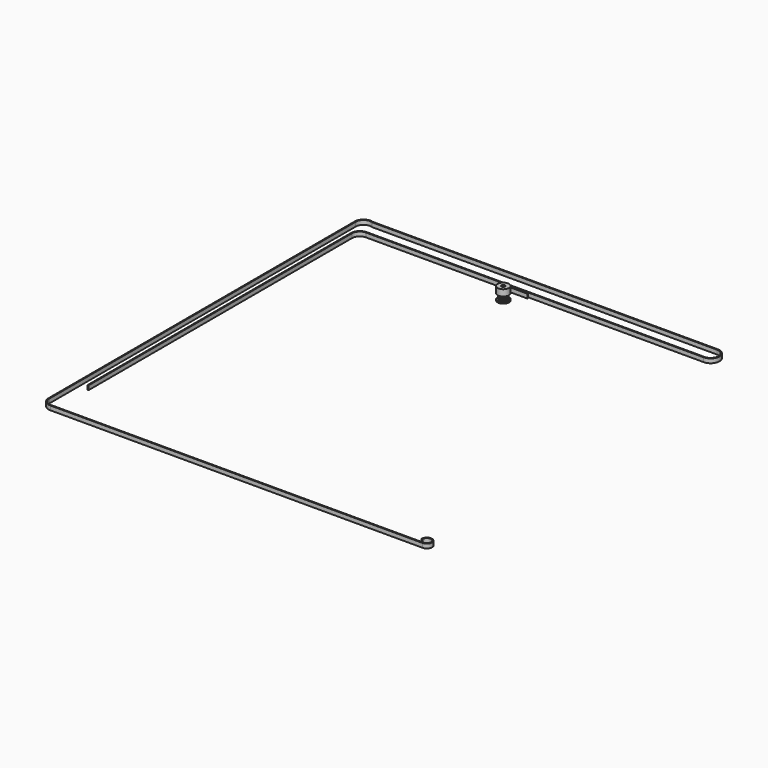
from build123d import *

# Parameters (mm, degrees)
F1_DEPTH  = 7.5
F2_R      = 8
F3_DEPTH  = 9
F4_R      = 8
F5_DEPTH  = 1.5
F6_R      = 2.5
F7_DEPTH  = 18.001
F8_R      = 1.5
F9_DEPTH  = 8.001
F10_R     = 1.5
F11_DEPTH = 8.0010001
F12_DEPTH = 6


with BuildPart() as f1:
    # F0 (on Top) → F1 (new body)
    with BuildSketch(Plane.XY):
        with BuildLine():
            ThreePointArc((-0.5137469529, -5.5950260293), (0, -5.25), (0.5137469529, -5.5950260293))
            ThreePointArc((0.5137469529, -5.5950260293), (0.5592692601, -5.7125893356), (0.5896381917, -5.8349459432))
            ThreePointArc((0.5896381917, -5.8349459432), (0.634011817, -5.9169199806), (0.718236871, -5.9568562008))
            ThreePointArc((0.718236871, -5.9568562008), (0.7555100891, -5.952243653), (0.7927537045, -5.9473978818))
            ThreePointArc((0.7927537045, -5.9473978818), (0.9386067902, -5.9261300436), (1.0838934413, -5.9012858775))
            ThreePointArc((1.0838934413, -5.9012858775), (1.1208116501, -5.8943855698), (1.1576859427, -5.8872543055))
            ThreePointArc((1.1576859427, -5.8872543055), (1.2254477584, -5.82324573), (1.2423182132, -5.7315715833))
            ThreePointArc((1.2423182132, -5.7315715833), (1.2333905124, -5.6058190183), (1.2403557397, -5.4799425032))
            ThreePointArc((1.2403557397, -5.4799425032), (1.6223392205, -4.9930467105), (2.2175605143, -5.1624294247))
            ThreePointArc((2.2175605143, -5.1624294247), (2.2971838607, -5.2601716067), (2.3638767022, -5.3671551397))
            ThreePointArc((2.3638767022, -5.3671551397), (2.4314098983, -5.4314048778), (2.5238536555, -5.4433595073))
            ThreePointArc((2.5238536555, -5.4433595073), (2.5578772368, -5.4274546558), (2.5918005942, -5.4113371434))
            ThreePointArc((2.5918005942, -5.4113371434), (2.7239429984, -5.3460391451), (2.8544415451, -5.2775148949))
            ThreePointArc((2.8544415451, -5.2775148949), (2.8874205358, -5.2595439583), (2.9202863902, -5.2413669399))
            ThreePointArc((2.9202863902, -5.2413669399), (2.964951969, -5.1595516144), (2.9526678557, -5.0671510626))
            ThreePointArc((2.9526678557, -5.0671510626), (2.905317428, -4.9503120775), (2.8730437705, -4.828444024))
            ThreePointArc((2.8730437705, -4.828444024), (3.0858725745, -4.2473392205), (3.7043038019, -4.2244982593))
            ThreePointArc((3.7043038019, -4.2244982593), (3.8102340997, -4.2928516312), (3.906722491, -4.373989796))
            ThreePointArc((3.906722491, -4.373989796), (3.9908046381, -4.4142260228), (4.0824180595, -4.3970288591))
            ThreePointArc((4.0824180595, -4.3970288591), (4.1098615388, -4.3713885816), (4.1371439837, -4.3455770225))
            ThreePointArc((4.1371439837, -4.3455770225), (4.2426406871, -4.2426406871), (4.3455770225, -4.1371439837))
            ThreePointArc((4.3455770225, -4.1371439837), (4.3713885816, -4.1098615388), (4.3970288591, -4.0824180595))
            ThreePointArc((4.3970288591, -4.0824180595), (4.4142260228, -3.9908046381), (4.373989796, -3.906722491))
            ThreePointArc((4.373989796, -3.906722491), (4.2928516312, -3.8102340997), (4.2244982593, -3.7043038019))
            ThreePointArc((4.2244982593, -3.7043038019), (4.2473392205, -3.0858725745), (4.828444024, -2.8730437705))
            ThreePointArc((4.828444024, -2.8730437705), (4.9503120775, -2.905317428), (5.0671510626, -2.9526678557))
            ThreePointArc((5.0671510626, -2.9526678557), (5.1595516144, -2.964951969), (5.2413669399, -2.9202863902))
            ThreePointArc((5.2413669399, -2.9202863902), (5.2595439583, -2.8874205358), (5.2775148949, -2.8544415451))
            ThreePointArc((5.2775148949, -2.8544415451), (5.3460391451, -2.7239429984), (5.4113371434, -2.5918005942))
            ThreePointArc((5.4113371434, -2.5918005942), (5.4432427829, -2.4673716464), (5.3671551397, -2.3638767022))
            ThreePointArc((5.3671551397, -2.3638767022), (5.2601716067, -2.2971838607), (5.1624294247, -2.2175605143))
            ThreePointArc((5.1624294247, -2.2175605143), (4.9930467105, -1.6223392205), (5.4799425032, -1.2403557397))
            ThreePointArc((5.4799425032, -1.2403557397), (5.6058190183, -1.2333905124), (5.7315715833, -1.2423182132))
            ThreePointArc((5.7315715833, -1.2423182132), (5.82324573, -1.2254477584), (5.8872543055, -1.1576859427))
            ThreePointArc((5.8872543055, -1.1576859427), (5.8943855698, -1.1208116501), (5.9012858775, -1.0838934413))
            ThreePointArc((5.9012858775, -1.0838934413), (5.9261300436, -0.9386067902), (5.9473978818, -0.7927537045))
            ThreePointArc((5.9473978818, -0.7927537045), (5.952243653, -0.7555100891), (5.9568562008, -0.718236871))
            ThreePointArc((5.9568562008, -0.718236871), (5.9169199806, -0.634011817), (5.8349459432, -0.5896381917))
            ThreePointArc((5.8349459432, -0.5896381917), (5.7125893356, -0.5592692601), (5.5950260293, -0.5137469529))
            ThreePointArc((5.5950260293, -0.5137469529), (5.25, 0), (5.5950260293, 0.5137469529))
            ThreePointArc((5.5950260293, 0.5137469529), (5.7125893356, 0.5592692601), (5.8349459432, 0.5896381917))
            ThreePointArc((5.8349459432, 0.5896381917), (5.9169199806, 0.634011817), (5.9568562008, 0.718236871))
            ThreePointArc((5.9568562008, 0.718236871), (5.952243653, 0.7555100891), (5.9473978818, 0.7927537045))
            ThreePointArc((5.9473978818, 0.7927537045), (5.9261300436, 0.9386067902), (5.9012858775, 1.0838934413))
            ThreePointArc((5.9012858775, 1.0838934413), (5.8943855698, 1.1208116501), (5.8872543055, 1.1576859427))
            ThreePointArc((5.8872543055, 1.1576859427), (5.82324573, 1.2254477584), (5.7315715833, 1.2423182132))
            ThreePointArc((5.7315715833, 1.2423182132), (5.6058190183, 1.2333905124), (5.4799425032, 1.2403557397))
            ThreePointArc((5.4799425032, 1.2403557397), (4.9930467105, 1.6223392205), (5.1624294247, 2.2175605143))
            ThreePointArc((5.1624294247, 2.2175605143), (5.2601716067, 2.2971838607), (5.3671551397, 2.3638767022))
            ThreePointArc((5.3671551397, 2.3638767022), (5.4314048778, 2.4314098983), (5.4433595073, 2.5238536555))
            ThreePointArc((5.4433595073, 2.5238536555), (5.4274546558, 2.5578772368), (5.4113371434, 2.5918005942))
            ThreePointArc((5.4113371434, 2.5918005942), (5.3460391451, 2.7239429984), (5.2775148949, 2.8544415451))
            ThreePointArc((5.2775148949, 2.8544415451), (5.2595439583, 2.8874205358), (5.2413669399, 2.9202863902))
            ThreePointArc((5.2413669399, 2.9202863902), (5.1595516144, 2.964951969), (5.0671510626, 2.9526678557))
            ThreePointArc((5.0671510626, 2.9526678557), (4.9503120775, 2.905317428), (4.828444024, 2.8730437705))
            ThreePointArc((4.828444024, 2.8730437705), (4.2473392205, 3.0858725745), (4.2244982593, 3.7043038019))
            ThreePointArc((4.2244982593, 3.7043038019), (4.2928516312, 3.8102340997), (4.373989796, 3.906722491))
            ThreePointArc((4.373989796, 3.906722491), (4.4142260228, 3.9908046381), (4.3970288591, 4.0824180595))
            ThreePointArc((4.3970288591, 4.0824180595), (4.3713885816, 4.1098615388), (4.3455770225, 4.1371439837))
            ThreePointArc((4.3455770225, 4.1371439837), (4.2426406871, 4.2426406871), (4.1371439837, 4.3455770225))
            ThreePointArc((4.1371439837, 4.3455770225), (4.1098615388, 4.3713885816), (4.0824180595, 4.3970288591))
            ThreePointArc((4.0824180595, 4.3970288591), (3.9908046381, 4.4142260228), (3.906722491, 4.373989796))
            ThreePointArc((3.906722491, 4.373989796), (3.8102340997, 4.2928516312), (3.7043038019, 4.2244982593))
            ThreePointArc((3.7043038019, 4.2244982593), (3.0858725745, 4.2473392205), (2.8730437705, 4.828444024))
            ThreePointArc((2.8730437705, 4.828444024), (2.905317428, 4.9503120775), (2.9526678557, 5.0671510626))
            ThreePointArc((2.9526678557, 5.0671510626), (2.964951969, 5.1595516144), (2.9202863902, 5.2413669399))
            ThreePointArc((2.9202863902, 5.2413669399), (2.8874205358, 5.2595439583), (2.8544415451, 5.2775148949))
            ThreePointArc((2.8544415451, 5.2775148949), (2.7239429984, 5.3460391451), (2.5918005942, 5.4113371434))
            ThreePointArc((2.5918005942, 5.4113371434), (2.5578772368, 5.4274546558), (2.5238536555, 5.4433595073))
            ThreePointArc((2.5238536555, 5.4433595073), (2.4314098983, 5.4314048778), (2.3638767022, 5.3671551397))
            ThreePointArc((2.3638767022, 5.3671551397), (2.2971838607, 5.2601716067), (2.2175605143, 5.1624294247))
            ThreePointArc((2.2175605143, 5.1624294247), (1.6223392205, 4.9930467105), (1.2403557397, 5.4799425032))
            ThreePointArc((1.2403557397, 5.4799425032), (1.2333905124, 5.6058190183), (1.2423182132, 5.7315715833))
            ThreePointArc((1.2423182132, 5.7315715833), (1.2254477584, 5.82324573), (1.1576859427, 5.8872543055))
            ThreePointArc((1.1576859427, 5.8872543055), (1.1208116501, 5.8943855698), (1.0838934413, 5.9012858775))
            ThreePointArc((1.0838934413, 5.9012858775), (0.9386067902, 5.9261300436), (0.7927537045, 5.9473978818))
            ThreePointArc((0.7927537045, 5.9473978818), (0.7555100891, 5.952243653), (0.718236871, 5.9568562008))
            ThreePointArc((0.718236871, 5.9568562008), (0.634011817, 5.9169199806), (0.5896381917, 5.8349459432))
            ThreePointArc((0.5896381917, 5.8349459432), (0.5592692601, 5.7125893356), (0.5137469529, 5.5950260293))
            ThreePointArc((0.5137469529, 5.5950260293), (0, 5.25), (-0.5137469529, 5.5950260293))
            ThreePointArc((-0.5137469529, 5.5950260293), (-0.5592692601, 5.7125893356), (-0.5896381917, 5.8349459432))
            ThreePointArc((-0.5896381917, 5.8349459432), (-0.634011817, 5.9169199806), (-0.718236871, 5.9568562008))
            ThreePointArc((-0.718236871, 5.9568562008), (-0.7555100891, 5.952243653), (-0.7927537045, 5.9473978818))
            ThreePointArc((-0.7927537045, 5.9473978818), (-0.9386067902, 5.9261300436), (-1.0838934413, 5.9012858775))
            ThreePointArc((-1.0838934413, 5.9012858775), (-1.1208116501, 5.8943855698), (-1.1576859427, 5.8872543055))
            ThreePointArc((-1.1576859427, 5.8872543055), (-1.2254477584, 5.82324573), (-1.2423182132, 5.7315715833))
            ThreePointArc((-1.2423182132, 5.7315715833), (-1.2333905124, 5.6058190183), (-1.2403557397, 5.4799425032))
            ThreePointArc((-1.2403557397, 5.4799425032), (-1.6223392205, 4.9930467105), (-2.2175605143, 5.1624294247))
            ThreePointArc((-2.2175605143, 5.1624294247), (-2.2971838607, 5.2601716067), (-2.3638767022, 5.3671551397))
            ThreePointArc((-2.3638767022, 5.3671551397), (-2.4314098983, 5.4314048778), (-2.5238536555, 5.4433595073))
            ThreePointArc((-2.5238536555, 5.4433595073), (-2.5578772368, 5.4274546558), (-2.5918005942, 5.4113371434))
            ThreePointArc((-2.5918005942, 5.4113371434), (-2.7239429984, 5.3460391451), (-2.8544415451, 5.2775148949))
            ThreePointArc((-2.8544415451, 5.2775148949), (-2.8874205358, 5.2595439583), (-2.9202863902, 5.2413669399))
            ThreePointArc((-2.9202863902, 5.2413669399), (-2.964951969, 5.1595516144), (-2.9526678557, 5.0671510626))
            ThreePointArc((-2.9526678557, 5.0671510626), (-2.905317428, 4.9503120775), (-2.8730437705, 4.828444024))
            ThreePointArc((-2.8730437705, 4.828444024), (-3.0858725745, 4.2473392205), (-3.7043038019, 4.2244982593))
            ThreePointArc((-3.7043038019, 4.2244982593), (-3.8102340997, 4.2928516312), (-3.906722491, 4.373989796))
            ThreePointArc((-3.906722491, 4.373989796), (-3.9908046381, 4.4142260228), (-4.0824180595, 4.3970288591))
            ThreePointArc((-4.0824180595, 4.3970288591), (-4.1098615388, 4.3713885816), (-4.1371439837, 4.3455770225))
            ThreePointArc((-4.1371439837, 4.3455770225), (-4.2426406871, 4.2426406871), (-4.3455770225, 4.1371439837))
            ThreePointArc((-4.3455770225, 4.1371439837), (-4.3713885816, 4.1098615388), (-4.3970288591, 4.0824180595))
            ThreePointArc((-4.3970288591, 4.0824180595), (-4.4142260228, 3.9908046381), (-4.373989796, 3.906722491))
            ThreePointArc((-4.373989796, 3.906722491), (-4.2928516312, 3.8102340997), (-4.2244982593, 3.7043038019))
            ThreePointArc((-4.2244982593, 3.7043038019), (-4.2473392205, 3.0858725745), (-4.828444024, 2.8730437705))
            ThreePointArc((-4.828444024, 2.8730437705), (-4.9503120775, 2.905317428), (-5.0671510626, 2.9526678557))
            ThreePointArc((-5.0671510626, 2.9526678557), (-5.1595516144, 2.964951969), (-5.2413669399, 2.9202863902))
            ThreePointArc((-5.2413669399, 2.9202863902), (-5.2595439583, 2.8874205358), (-5.2775148949, 2.8544415451))
            ThreePointArc((-5.2775148949, 2.8544415451), (-5.3460391451, 2.7239429984), (-5.4113371434, 2.5918005942))
            ThreePointArc((-5.4113371434, 2.5918005942), (-5.4274546558, 2.5578772368), (-5.4433595073, 2.5238536555))
            ThreePointArc((-5.4433595073, 2.5238536555), (-5.4314048778, 2.4314098983), (-5.3671551397, 2.3638767022))
            ThreePointArc((-5.3671551397, 2.3638767022), (-5.2601716067, 2.2971838607), (-5.1624294247, 2.2175605143))
            ThreePointArc((-5.1624294247, 2.2175605143), (-4.9930467105, 1.6223392205), (-5.4799425032, 1.2403557397))
            ThreePointArc((-5.4799425032, 1.2403557397), (-5.6058190183, 1.2333905124), (-5.7315715833, 1.2423182132))
            ThreePointArc((-5.7315715833, 1.2423182132), (-5.82324573, 1.2254477584), (-5.8872543055, 1.1576859427))
            ThreePointArc((-5.8872543055, 1.1576859427), (-5.8943855698, 1.1208116501), (-5.9012858775, 1.0838934413))
            ThreePointArc((-5.9012858775, 1.0838934413), (-5.9261300436, 0.9386067902), (-5.9473978818, 0.7927537045))
            ThreePointArc((-5.9473978818, 0.7927537045), (-5.952243653, 0.7555100891), (-5.9568562008, 0.718236871))
            ThreePointArc((-5.9568562008, 0.718236871), (-5.9169199806, 0.634011817), (-5.8349459432, 0.5896381917))
            ThreePointArc((-5.8349459432, 0.5896381917), (-5.7125893356, 0.5592692601), (-5.5950260293, 0.5137469529))
            ThreePointArc((-5.5950260293, 0.5137469529), (-5.25, 0), (-5.5950260293, -0.5137469529))
            ThreePointArc((-5.5950260293, -0.5137469529), (-5.7125893356, -0.5592692601), (-5.8349459432, -0.5896381917))
            ThreePointArc((-5.8349459432, -0.5896381917), (-5.9169199806, -0.634011817), (-5.9568562008, -0.718236871))
            ThreePointArc((-5.9568562008, -0.718236871), (-5.952243653, -0.7555100891), (-5.9473978818, -0.7927537045))
            ThreePointArc((-5.9473978818, -0.7927537045), (-5.9261300436, -0.9386067902), (-5.9012858775, -1.0838934413))
            ThreePointArc((-5.9012858775, -1.0838934413), (-5.8943855698, -1.1208116501), (-5.8872543055, -1.1576859427))
            ThreePointArc((-5.8872543055, -1.1576859427), (-5.82324573, -1.2254477584), (-5.7315715833, -1.2423182132))
            ThreePointArc((-5.7315715833, -1.2423182132), (-5.6058190183, -1.2333905124), (-5.4799425032, -1.2403557397))
            ThreePointArc((-5.4799425032, -1.2403557397), (-4.9930467105, -1.6223392205), (-5.1624294247, -2.2175605143))
            ThreePointArc((-5.1624294247, -2.2175605143), (-5.2601716067, -2.2971838607), (-5.3671551397, -2.3638767022))
            ThreePointArc((-5.3671551397, -2.3638767022), (-5.4314048778, -2.4314098983), (-5.4433595073, -2.5238536555))
            ThreePointArc((-5.4433595073, -2.5238536555), (-5.4274546558, -2.5578772368), (-5.4113371434, -2.5918005942))
            ThreePointArc((-5.4113371434, -2.5918005942), (-5.3460391451, -2.7239429984), (-5.2775148949, -2.8544415451))
            ThreePointArc((-5.2775148949, -2.8544415451), (-5.2595439583, -2.8874205358), (-5.2413669399, -2.9202863902))
            ThreePointArc((-5.2413669399, -2.9202863902), (-5.1595516144, -2.964951969), (-5.0671510626, -2.9526678557))
            ThreePointArc((-5.0671510626, -2.9526678557), (-4.9503120775, -2.905317428), (-4.828444024, -2.8730437705))
            ThreePointArc((-4.828444024, -2.8730437705), (-4.2473392205, -3.0858725745), (-4.2244982593, -3.7043038019))
            ThreePointArc((-4.2244982593, -3.7043038019), (-4.2928516312, -3.8102340997), (-4.373989796, -3.906722491))
            ThreePointArc((-4.373989796, -3.906722491), (-4.4142260228, -3.9908046381), (-4.3970288591, -4.0824180595))
            ThreePointArc((-4.3970288591, -4.0824180595), (-4.3713885816, -4.1098615388), (-4.3455770225, -4.1371439837))
            ThreePointArc((-4.3455770225, -4.1371439837), (-4.2426406871, -4.2426406871), (-4.1371439837, -4.3455770225))
            ThreePointArc((-4.1371439837, -4.3455770225), (-4.1098615388, -4.3713885816), (-4.0824180595, -4.3970288591))
            ThreePointArc((-4.0824180595, -4.3970288591), (-3.9908046381, -4.4142260228), (-3.906722491, -4.373989796))
            ThreePointArc((-3.906722491, -4.373989796), (-3.8102340997, -4.2928516312), (-3.7043038019, -4.2244982593))
            ThreePointArc((-3.7043038019, -4.2244982593), (-3.0858725745, -4.2473392205), (-2.8730437705, -4.828444024))
            ThreePointArc((-2.8730437705, -4.828444024), (-2.905317428, -4.9503120775), (-2.9526678557, -5.0671510626))
            ThreePointArc((-2.9526678557, -5.0671510626), (-2.964951969, -5.1595516144), (-2.9202863902, -5.2413669399))
            ThreePointArc((-2.9202863902, -5.2413669399), (-2.8874205358, -5.2595439583), (-2.8544415451, -5.2775148949))
            ThreePointArc((-2.8544415451, -5.2775148949), (-2.7239429984, -5.3460391451), (-2.5918005942, -5.4113371434))
            ThreePointArc((-2.5918005942, -5.4113371434), (-2.5578772368, -5.4274546558), (-2.5238536555, -5.4433595073))
            ThreePointArc((-2.5238536555, -5.4433595073), (-2.4314098983, -5.4314048778), (-2.3638767022, -5.3671551397))
            ThreePointArc((-2.3638767022, -5.3671551397), (-2.2971838607, -5.2601716067), (-2.2175605143, -5.1624294247))
            ThreePointArc((-2.2175605143, -5.1624294247), (-1.6223392205, -4.9930467105), (-1.2403557397, -5.4799425032))
            ThreePointArc((-1.2403557397, -5.4799425032), (-1.2333905124, -5.6058190183), (-1.2423182132, -5.7315715833))
            ThreePointArc((-1.2423182132, -5.7315715833), (-1.2254477584, -5.82324573), (-1.1576859427, -5.8872543055))
            ThreePointArc((-1.1576859427, -5.8872543055), (-1.1208116501, -5.8943855698), (-1.0838934413, -5.9012858775))
            ThreePointArc((-1.0838934413, -5.9012858775), (-0.9386067902, -5.9261300436), (-0.7927537045, -5.9473978818))
            ThreePointArc((-0.7927537045, -5.9473978818), (-0.7555100891, -5.952243653), (-0.718236871, -5.9568562008))
            ThreePointArc((-0.718236871, -5.9568562008), (-0.634011817, -5.9169199806), (-0.5896381917, -5.8349459432))
            ThreePointArc((-0.5896381917, -5.8349459432), (-0.5592692601, -5.7125893356), (-0.5137469529, -5.5950260293))
        make_face()
    extrude(amount=F1_DEPTH)

    # F2 (on face) → F3 (join)
    with BuildSketch(Plane.XY.offset(7.5)):
        Circle(F2_R)
    extrude(amount=F3_DEPTH)

    # F4 (on face) → F5 (join)
    with BuildSketch(Plane(origin=(0, 0, 0), x_dir=(1, 0, 0), z_dir=(0, 0, -1))):
        Circle(F4_R)
    extrude(amount=F5_DEPTH)

    # F6 (on face) → F7 (cut, through all)
    with BuildSketch(Plane(origin=(0, 0, -1.5), x_dir=(1, 0, 0), z_dir=(0, 0, -1))):
        Circle(F6_R)
    extrude(amount=-F7_DEPTH, mode=Mode.SUBTRACT)

    # F8 (on Right) → F9 (cut, through all)
    with BuildSketch(Plane.YZ):
        with Locations((0, 12)):
            Circle(F8_R)
    extrude(amount=-F9_DEPTH, mode=Mode.SUBTRACT)

    # F10 (on Front) → F11 (cut, through all)
    with BuildSketch(Plane.XZ):
        with Locations((0, 12)):
            Circle(F10_R)
    extrude(amount=-F11_DEPTH, mode=Mode.SUBTRACT)


with BuildPart() as f12:
    # F0 (on Top) → F12 (new body)
    with BuildSketch(Plane.XY):
        with BuildLine():
            Line((-18.1710498184, 18.4070537127), (-18.1710498184, 17.7770537127))
            Line((-18.1710498184, 17.7770537127), (19.8289501816, 17.7770537127))
            Line((19.8289501816, 17.7770537127), (19.8289501816, 18.4070537127))
            Line((19.8289501816, 18.4070537127), (19.5691256067, 18.4070537127))
            ThreePointArc((19.5691256067, 18.4070537127), (19.4702185357, 18.444282301), (19.420407073, 18.5374884953))
            ThreePointArc((19.420407073, 18.5374884953), (19.3865618959, 18.6951158667), (19.3278265861, 18.8452559599))
            ThreePointArc((19.3278265861, 18.8452559599), (19.1230995933, 19.0726927714), (18.8289501816, 19.1570537127))
            ThreePointArc((18.8289501816, 19.1570537127), (18.5348007699, 19.0726927714), (18.3300737771, 18.8452559599))
            ThreePointArc((18.3300737771, 18.8452559599), (18.2713384673, 18.6951158667), (18.2374932902, 18.5374884953))
            ThreePointArc((18.2374932902, 18.5374884953), (18.1876818275, 18.444282301), (18.0887747565, 18.4070537127))
            Line((18.0887747565, 18.4070537127), (17.8289501816, 18.4070537127))
            Line((17.8289501816, 18.4070537127), (17.5691256067, 18.4070537127))
            ThreePointArc((17.5691256067, 18.4070537127), (17.4702185357, 18.444282301), (17.420407073, 18.5374884953))
            ThreePointArc((17.420407073, 18.5374884953), (17.3865618959, 18.6951158667), (17.3278265861, 18.8452559599))
            ThreePointArc((17.3278265861, 18.8452559599), (17.1230995933, 19.0726927714), (16.8289501816, 19.1570537127))
            ThreePointArc((16.8289501816, 19.1570537127), (16.5348007699, 19.0726927714), (16.3300737771, 18.8452559599))
            ThreePointArc((16.3300737771, 18.8452559599), (16.2713384673, 18.6951158667), (16.2374932902, 18.5374884953))
            ThreePointArc((16.2374932902, 18.5374884953), (16.1876818275, 18.444282301), (16.0887747565, 18.4070537127))
            Line((16.0887747565, 18.4070537127), (15.8289501816, 18.4070537127))
            Line((15.8289501816, 18.4070537127), (15.5691256067, 18.4070537127))
            ThreePointArc((15.5691256067, 18.4070537127), (15.4702185357, 18.444282301), (15.420407073, 18.5374884953))
            ThreePointArc((15.420407073, 18.5374884953), (15.3865618959, 18.6951158667), (15.3278265861, 18.8452559599))
            ThreePointArc((15.3278265861, 18.8452559599), (15.1230995933, 19.0726927714), (14.8289501816, 19.1570537127))
            ThreePointArc((14.8289501816, 19.1570537127), (14.5348007699, 19.0726927714), (14.3300737771, 18.8452559599))
            ThreePointArc((14.3300737771, 18.8452559599), (14.2713384673, 18.6951158667), (14.2374932902, 18.5374884953))
            ThreePointArc((14.2374932902, 18.5374884953), (14.1876818275, 18.444282301), (14.0887747565, 18.4070537127))
            Line((14.0887747565, 18.4070537127), (13.8289501816, 18.4070537127))
            Line((13.8289501816, 18.4070537127), (13.5691256067, 18.4070537127))
            ThreePointArc((13.5691256067, 18.4070537127), (13.4702185357, 18.444282301), (13.420407073, 18.5374884953))
            ThreePointArc((13.420407073, 18.5374884953), (13.3865618959, 18.6951158667), (13.3278265861, 18.8452559599))
            ThreePointArc((13.3278265861, 18.8452559599), (13.1230995933, 19.0726927714), (12.8289501816, 19.1570537127))
            ThreePointArc((12.8289501816, 19.1570537127), (12.5348007699, 19.0726927714), (12.3300737771, 18.8452559599))
            ThreePointArc((12.3300737771, 18.8452559599), (12.2713384673, 18.6951158667), (12.2374932902, 18.5374884953))
            ThreePointArc((12.2374932902, 18.5374884953), (12.1876818275, 18.444282301), (12.0887747565, 18.4070537127))
            Line((12.0887747565, 18.4070537127), (11.8289501816, 18.4070537127))
            Line((11.8289501816, 18.4070537127), (11.5691256067, 18.4070537127))
            ThreePointArc((11.5691256067, 18.4070537127), (11.4702185357, 18.444282301), (11.420407073, 18.5374884953))
            ThreePointArc((11.420407073, 18.5374884953), (11.3865618959, 18.6951158667), (11.3278265861, 18.8452559599))
            ThreePointArc((11.3278265861, 18.8452559599), (11.1230995933, 19.0726927714), (10.8289501816, 19.1570537127))
            ThreePointArc((10.8289501816, 19.1570537127), (10.5348007699, 19.0726927714), (10.3300737771, 18.8452559599))
            ThreePointArc((10.3300737771, 18.8452559599), (10.2713384673, 18.6951158667), (10.2374932902, 18.5374884953))
            ThreePointArc((10.2374932902, 18.5374884953), (10.1876818275, 18.444282301), (10.0887747565, 18.4070537127))
            Line((10.0887747565, 18.4070537127), (9.8289501816, 18.4070537127))
            Line((9.8289501816, 18.4070537127), (9.5691256067, 18.4070537127))
            ThreePointArc((9.5691256067, 18.4070537127), (9.4702185357, 18.444282301), (9.420407073, 18.5374884953))
            ThreePointArc((9.420407073, 18.5374884953), (9.3865618959, 18.6951158667), (9.3278265861, 18.8452559599))
            ThreePointArc((9.3278265861, 18.8452559599), (9.1230995933, 19.0726927714), (8.8289501816, 19.1570537127))
            ThreePointArc((8.8289501816, 19.1570537127), (8.5348007699, 19.0726927714), (8.3300737771, 18.8452559599))
            ThreePointArc((8.3300737771, 18.8452559599), (8.2713384673, 18.6951158667), (8.2374932902, 18.5374884953))
            ThreePointArc((8.2374932902, 18.5374884953), (8.1876818275, 18.444282301), (8.0887747565, 18.4070537127))
            Line((8.0887747565, 18.4070537127), (7.8289501816, 18.4070537127))
            Line((7.8289501816, 18.4070537127), (7.5691256067, 18.4070537127))
            ThreePointArc((7.5691256067, 18.4070537127), (7.4702185357, 18.444282301), (7.420407073, 18.5374884953))
            ThreePointArc((7.420407073, 18.5374884953), (7.3865618959, 18.6951158667), (7.3278265861, 18.8452559599))
            ThreePointArc((7.3278265861, 18.8452559599), (7.1230995933, 19.0726927714), (6.8289501816, 19.1570537127))
            ThreePointArc((6.8289501816, 19.1570537127), (6.5348007699, 19.0726927714), (6.3300737771, 18.8452559599))
            ThreePointArc((6.3300737771, 18.8452559599), (6.2713384673, 18.6951158667), (6.2374932902, 18.5374884953))
            ThreePointArc((6.2374932902, 18.5374884953), (6.1876818275, 18.444282301), (6.0887747565, 18.4070537127))
            Line((6.0887747565, 18.4070537127), (5.8289501816, 18.4070537127))
            Line((5.8289501816, 18.4070537127), (5.5691256067, 18.4070537127))
            ThreePointArc((5.5691256067, 18.4070537127), (5.4702185357, 18.444282301), (5.420407073, 18.5374884953))
            ThreePointArc((5.420407073, 18.5374884953), (5.3865618959, 18.6951158667), (5.3278265861, 18.8452559599))
            ThreePointArc((5.3278265861, 18.8452559599), (5.1230995933, 19.0726927714), (4.8289501816, 19.1570537127))
            ThreePointArc((4.8289501816, 19.1570537127), (4.5348007699, 19.0726927714), (4.3300737771, 18.8452559599))
            ThreePointArc((4.3300737771, 18.8452559599), (4.2713384673, 18.6951158667), (4.2374932902, 18.5374884953))
            ThreePointArc((4.2374932902, 18.5374884953), (4.1876818275, 18.444282301), (4.0887747565, 18.4070537127))
            Line((4.0887747565, 18.4070537127), (3.8289501816, 18.4070537127))
            Line((3.8289501816, 18.4070537127), (3.5691256067, 18.4070537127))
            ThreePointArc((3.5691256067, 18.4070537127), (3.4702185357, 18.444282301), (3.420407073, 18.5374884953))
            ThreePointArc((3.420407073, 18.5374884953), (3.3865618959, 18.6951158667), (3.3278265861, 18.8452559599))
            ThreePointArc((3.3278265861, 18.8452559599), (3.1230995933, 19.0726927714), (2.8289501816, 19.1570537127))
            ThreePointArc((2.8289501816, 19.1570537127), (2.5348007699, 19.0726927714), (2.3300737771, 18.8452559599))
            ThreePointArc((2.3300737771, 18.8452559599), (2.2713384673, 18.6951158667), (2.2374932902, 18.5374884953))
            ThreePointArc((2.2374932902, 18.5374884953), (2.1876818275, 18.444282301), (2.0887747565, 18.4070537127))
            Line((2.0887747565, 18.4070537127), (1.8289501816, 18.4070537127))
            Line((1.8289501816, 18.4070537127), (1.5691256067, 18.4070537127))
            ThreePointArc((1.5691256067, 18.4070537127), (1.4702185357, 18.444282301), (1.420407073, 18.5374884953))
            ThreePointArc((1.420407073, 18.5374884953), (1.3865618959, 18.6951158667), (1.3278265861, 18.8452559599))
            ThreePointArc((1.3278265861, 18.8452559599), (1.1230995933, 19.0726927714), (0.8289501816, 19.1570537127))
            ThreePointArc((0.8289501816, 19.1570537127), (0.5348007699, 19.0726927714), (0.3300737771, 18.8452559599))
            ThreePointArc((0.3300737771, 18.8452559599), (0.2713384673, 18.6951158667), (0.2374932902, 18.5374884953))
            ThreePointArc((0.2374932902, 18.5374884953), (0.1876818275, 18.444282301), (0.0887747565, 18.4070537127))
            Line((0.0887747565, 18.4070537127), (-0.1710498184, 18.4070537127))
            Line((-0.1710498184, 18.4070537127), (-0.4308743933, 18.4070537127))
            ThreePointArc((-0.4308743933, 18.4070537127), (-0.5297814643, 18.444282301), (-0.579592927, 18.5374884953))
            ThreePointArc((-0.579592927, 18.5374884953), (-0.6134381041, 18.6951158667), (-0.6721734139, 18.8452559599))
            ThreePointArc((-0.6721734139, 18.8452559599), (-0.8769004067, 19.0726927714), (-1.1710498184, 19.1570537127))
            ThreePointArc((-1.1710498184, 19.1570537127), (-1.4651992301, 19.0726927714), (-1.6699262229, 18.8452559599))
            ThreePointArc((-1.6699262229, 18.8452559599), (-1.7286615327, 18.6951158667), (-1.7625067098, 18.5374884953))
            ThreePointArc((-1.7625067098, 18.5374884953), (-1.8123181725, 18.444282301), (-1.9112252435, 18.4070537127))
            Line((-1.9112252435, 18.4070537127), (-2.1710498184, 18.4070537127))
            Line((-2.1710498184, 18.4070537127), (-2.4308743933, 18.4070537127))
            ThreePointArc((-2.4308743933, 18.4070537127), (-2.5297814643, 18.444282301), (-2.579592927, 18.5374884953))
            ThreePointArc((-2.579592927, 18.5374884953), (-2.6134381041, 18.6951158667), (-2.6721734139, 18.8452559599))
            ThreePointArc((-2.6721734139, 18.8452559599), (-2.8769004067, 19.0726927714), (-3.1710498184, 19.1570537127))
            ThreePointArc((-3.1710498184, 19.1570537127), (-3.4651992301, 19.0726927714), (-3.6699262229, 18.8452559599))
            ThreePointArc((-3.6699262229, 18.8452559599), (-3.7286615327, 18.6951158667), (-3.7625067098, 18.5374884953))
            ThreePointArc((-3.7625067098, 18.5374884953), (-3.8123181725, 18.444282301), (-3.9112252435, 18.4070537127))
            Line((-3.9112252435, 18.4070537127), (-4.1710498184, 18.4070537127))
            Line((-4.1710498184, 18.4070537127), (-4.4308743933, 18.4070537127))
            ThreePointArc((-4.4308743933, 18.4070537127), (-4.5297814643, 18.444282301), (-4.579592927, 18.5374884953))
            ThreePointArc((-4.579592927, 18.5374884953), (-4.6134381041, 18.6951158667), (-4.6721734139, 18.8452559599))
            ThreePointArc((-4.6721734139, 18.8452559599), (-4.8769004067, 19.0726927714), (-5.1710498184, 19.1570537127))
            ThreePointArc((-5.1710498184, 19.1570537127), (-5.4651992301, 19.0726927714), (-5.6699262229, 18.8452559599))
            ThreePointArc((-5.6699262229, 18.8452559599), (-5.7286615327, 18.6951158667), (-5.7625067098, 18.5374884953))
            ThreePointArc((-5.7625067098, 18.5374884953), (-5.8123181725, 18.444282301), (-5.9112252435, 18.4070537127))
            Line((-5.9112252435, 18.4070537127), (-6.1710498184, 18.4070537127))
            Line((-6.1710498184, 18.4070537127), (-6.4308743933, 18.4070537127))
            ThreePointArc((-6.4308743933, 18.4070537127), (-6.5297814643, 18.444282301), (-6.579592927, 18.5374884953))
            ThreePointArc((-6.579592927, 18.5374884953), (-6.6134381041, 18.6951158667), (-6.6721734139, 18.8452559599))
            ThreePointArc((-6.6721734139, 18.8452559599), (-6.8769004067, 19.0726927714), (-7.1710498184, 19.1570537127))
            ThreePointArc((-7.1710498184, 19.1570537127), (-7.4651992301, 19.0726927714), (-7.6699262229, 18.8452559599))
            ThreePointArc((-7.6699262229, 18.8452559599), (-7.7286615327, 18.6951158667), (-7.7625067098, 18.5374884953))
            ThreePointArc((-7.7625067098, 18.5374884953), (-7.8123181725, 18.444282301), (-7.9112252435, 18.4070537127))
            Line((-7.9112252435, 18.4070537127), (-8.1710498184, 18.4070537127))
            Line((-8.1710498184, 18.4070537127), (-8.4308743933, 18.4070537127))
            ThreePointArc((-8.4308743933, 18.4070537127), (-8.5297814643, 18.444282301), (-8.579592927, 18.5374884953))
            ThreePointArc((-8.579592927, 18.5374884953), (-8.6134381041, 18.6951158667), (-8.6721734139, 18.8452559599))
            ThreePointArc((-8.6721734139, 18.8452559599), (-8.8769004067, 19.0726927714), (-9.1710498184, 19.1570537127))
            ThreePointArc((-9.1710498184, 19.1570537127), (-9.4651992301, 19.0726927714), (-9.6699262229, 18.8452559599))
            ThreePointArc((-9.6699262229, 18.8452559599), (-9.7286615327, 18.6951158667), (-9.7625067098, 18.5374884953))
            ThreePointArc((-9.7625067098, 18.5374884953), (-9.8123181725, 18.444282301), (-9.9112252435, 18.4070537127))
            Line((-9.9112252435, 18.4070537127), (-10.1710498184, 18.4070537127))
            Line((-10.1710498184, 18.4070537127), (-10.4308743933, 18.4070537127))
            ThreePointArc((-10.4308743933, 18.4070537127), (-10.5297814643, 18.444282301), (-10.579592927, 18.5374884953))
            ThreePointArc((-10.579592927, 18.5374884953), (-10.6134381041, 18.6951158667), (-10.6721734139, 18.8452559599))
            ThreePointArc((-10.6721734139, 18.8452559599), (-10.8769004067, 19.0726927714), (-11.1710498184, 19.1570537127))
            ThreePointArc((-11.1710498184, 19.1570537127), (-11.4651992301, 19.0726927714), (-11.6699262229, 18.8452559599))
            ThreePointArc((-11.6699262229, 18.8452559599), (-11.7286615327, 18.6951158667), (-11.7625067098, 18.5374884953))
            ThreePointArc((-11.7625067098, 18.5374884953), (-11.8123181725, 18.444282301), (-11.9112252435, 18.4070537127))
            Line((-11.9112252435, 18.4070537127), (-12.1710498184, 18.4070537127))
            Line((-12.1710498184, 18.4070537127), (-12.4308743933, 18.4070537127))
            ThreePointArc((-12.4308743933, 18.4070537127), (-12.5297814643, 18.444282301), (-12.579592927, 18.5374884953))
            ThreePointArc((-12.579592927, 18.5374884953), (-12.6134381041, 18.6951158667), (-12.6721734139, 18.8452559599))
            ThreePointArc((-12.6721734139, 18.8452559599), (-12.8769004067, 19.0726927714), (-13.1710498184, 19.1570537127))
            ThreePointArc((-13.1710498184, 19.1570537127), (-13.4651992301, 19.0726927714), (-13.6699262229, 18.8452559599))
            ThreePointArc((-13.6699262229, 18.8452559599), (-13.7286615327, 18.6951158667), (-13.7625067098, 18.5374884953))
            ThreePointArc((-13.7625067098, 18.5374884953), (-13.8123181725, 18.444282301), (-13.9112252435, 18.4070537127))
            Line((-13.9112252435, 18.4070537127), (-14.1710498184, 18.4070537127))
            Line((-14.1710498184, 18.4070537127), (-14.4308743933, 18.4070537127))
            ThreePointArc((-14.4308743933, 18.4070537127), (-14.5297814643, 18.444282301), (-14.579592927, 18.5374884953))
            ThreePointArc((-14.579592927, 18.5374884953), (-14.6134381041, 18.6951158667), (-14.6721734139, 18.8452559599))
            ThreePointArc((-14.6721734139, 18.8452559599), (-14.8769004067, 19.0726927714), (-15.1710498184, 19.1570537127))
            ThreePointArc((-15.1710498184, 19.1570537127), (-15.4651992301, 19.0726927714), (-15.6699262229, 18.8452559599))
            ThreePointArc((-15.6699262229, 18.8452559599), (-15.7286615327, 18.6951158667), (-15.7625067098, 18.5374884953))
            ThreePointArc((-15.7625067098, 18.5374884953), (-15.8123181725, 18.444282301), (-15.9112252435, 18.4070537127))
            Line((-15.9112252435, 18.4070537127), (-16.1710498184, 18.4070537127))
            Line((-16.1710498184, 18.4070537127), (-16.4308743933, 18.4070537127))
            ThreePointArc((-16.4308743933, 18.4070537127), (-16.5297814643, 18.444282301), (-16.579592927, 18.5374884953))
            ThreePointArc((-16.579592927, 18.5374884953), (-16.6134381041, 18.6951158667), (-16.6721734139, 18.8452559599))
            ThreePointArc((-16.6721734139, 18.8452559599), (-16.8769004067, 19.0726927714), (-17.1710498184, 19.1570537127))
            ThreePointArc((-17.1710498184, 19.1570537127), (-17.4651992301, 19.0726927714), (-17.6699262229, 18.8452559599))
            ThreePointArc((-17.6699262229, 18.8452559599), (-17.7286615327, 18.6951158667), (-17.7625067098, 18.5374884953))
            ThreePointArc((-17.7625067098, 18.5374884953), (-17.8123181725, 18.444282301), (-17.9112252435, 18.4070537127))
            Line((-17.9112252435, 18.4070537127), (-18.1710498184, 18.4070537127))
        make_face()
    extrude(amount=F12_DEPTH)


with BuildPart() as f12b:
    # F0 (on Top) → F12, piece 2 (new body)
    with BuildSketch(Plane.XY):
        with BuildLine():
            ThreePointArc((-221.4051710325, 9.5939300377), (-218.1833456255, 17.3721046307), (-210.4051710325, 20.5939300377))
            Line((-210.4051710325, 20.5939300377), (266.5948289675, 20.5939300377))
            ThreePointArc((266.5948289675, 20.5939300377), (278.974828967, 32.9739300372), (266.5948289675, 45.3539300367))
            Line((266.5948289675, 45.3539300367), (-220.4051710325, 45.3539300367))
            ThreePointArc((-220.4051710325, 45.3539300367), (-231.9124802497, 43.553067757), (-236.7851710324, 32.9739300366))
            Line((-236.7851710324, 32.9739300366), (-236.7851710324, -507.0260699634))
            ThreePointArc((-236.7851710324, -507.0260699634), (-233.1591529834, -515.7800519141), (-224.4051710324, -519.4060699629))
            Line((-224.4051710324, -519.4060699629), (291.5948289676, -519.4060699629))
            Line((291.5948289676, -519.4060699629), (301.5948289676, -519.4060699629))
            ThreePointArc((301.5948289676, -519.4060699629), (306.8132770127, -506.8076219177), (294.2148289675, -512.0260699629))
            Line((294.2148289675, -512.0260699629), (295.5948289675, -512.0260699629))
            ThreePointArc((295.5948289675, -512.0260699629), (305.8374696547, -507.7834292758), (301.5948289675, -518.0260699629))
            Line((301.5948289675, -518.0260699629), (291.5948289676, -518.0260699629))
            Line((291.5948289676, -518.0260699629), (-224.4051710324, -518.0260699629))
            ThreePointArc((-224.4051710324, -518.0260699629), (-232.1833456253, -514.8042445561), (-235.4051710324, -507.0260699634))
            Line((-235.4051710324, -507.0260699634), (-235.4051710324, 32.9739300366))
            ThreePointArc((-235.4051710324, 32.9739300366), (-230.9366962854, 42.6078281089), (-220.4051710325, 43.9739300367))
            Line((-220.4051710325, 43.9739300367), (266.5948289675, 43.9739300367))
            ThreePointArc((266.5948289675, 43.9739300372), (277.5948289675, 32.9739300372), (266.5948289675, 21.9739300372))
            Line((266.5948289675, 21.9739300377), (-210.4051710325, 21.9739300377))
            ThreePointArc((-210.4051710325, 21.9739300377), (-219.1591529836, 18.3479119888), (-222.7851710325, 9.5939300377))
            Line((-222.7851710325, 9.5939300377), (-222.7851710325, -455.6460699623))
            Line((-222.7851710325, -455.6460699623), (-221.4051710325, -455.6460699623))
            Line((-221.4051710325, -455.6460699623), (-221.4051710325, 9.5939300377))
        make_face()
    extrude(amount=F12_DEPTH)


solid = Compound([f1.part, f12.part, f12b.part])
